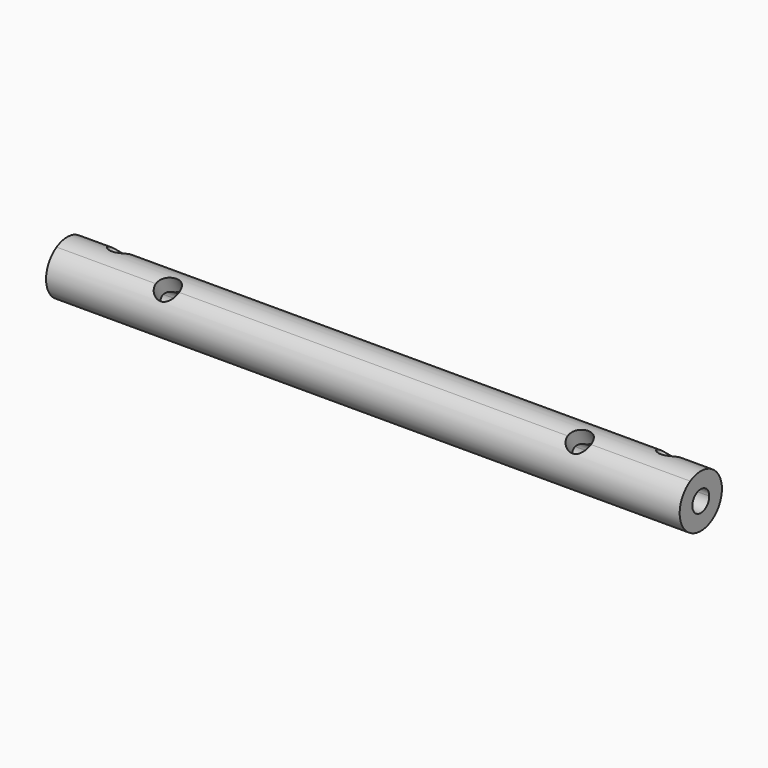
from build123d import *

# Parameters (mm, degrees)
F1_DEPTH = 300
F3_R     = 11
F4_DEPTH = 20
F6_R     = 10
F7_DEPTH = 20


with BuildPart() as f1:
    # F0 (on Right) → F1 (new body, symmetric)
    with BuildSketch(Plane.YZ):
        with BuildLine():
            Line((5, 8.6602540378), (12.5, 21.6506350946))
            ThreePointArc((12.5, 21.6506350946), (0, 25), (-12.5, 21.6506350946))
            Line((-12.5, 21.6506350946), (-5, 8.6602540378))
            ThreePointArc((-5, 8.6602540378), (0, 10), (5, 8.6602540378))
        make_face()
        with BuildLine():
            ThreePointArc((-12.5, 21.6506350946), (-12.5, -21.6506350946), (25, 0))
            ThreePointArc((25, 0), (21.6506350946, 12.5), (12.5, 21.6506350946))
            Line((12.5, 21.6506350946), (5, 8.6602540378))
            ThreePointArc((5, 8.6602540378), (8.6602540378, 5), (10, 0))
            ThreePointArc((10, 0), (-5, -8.6602540378), (-5, 8.6602540378))
            Line((-5, 8.6602540378), (-12.5, 21.6506350946))
        make_face()
    extrude(amount=F1_DEPTH, both=True)

    # F3 (on face) → F4 (cut)
    with BuildSketch(Plane(origin=(0, -12.5, 21.6506350946), x_dir=(1, 0, 0), z_dir=(0, 0.5, -0.8660254038))):
        with BuildLine():
            ThreePointArc((206, 0), (195, 11), (184, 0))
            ThreePointArc((184, 0), (195, -11), (206, 0))
        make_face()
        with Locations((-195, 0)):
            Circle(F3_R)
    extrude(amount=F4_DEPTH, mode=Mode.SUBTRACT)

    # F6 (on face) → F7 (cut)
    with BuildSketch(Plane(origin=(0, 12.5, 21.6506350946), x_dir=(1, 0, 0), z_dir=(0, 0.5, 0.8660254038))):
        with BuildLine():
            ThreePointArc((270, 0), (260, 10), (250, 0))
            ThreePointArc((250, 0), (260, -10), (270, 0))
        make_face()
        with Locations((-260, 0)):
            Circle(F6_R)
    extrude(amount=-F7_DEPTH, mode=Mode.SUBTRACT)


solid = f1.part
